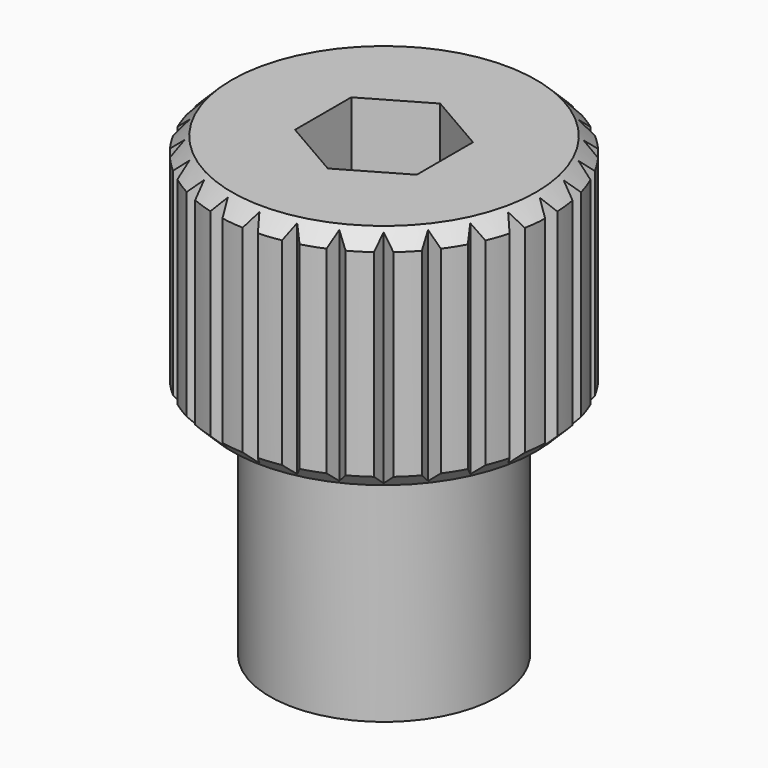
from build123d import *

# Parameters (mm, degrees)
F0_R      = 7.5
F0_R_2    = 2.65
F1_DEPTH  = 15
F2_R      = 11
F3_DEPTH  = 15
F4_DEPTH  = 15
F6_DEPTH  = 4.5
F7_SIZE   = 1
F9_DEPTH  = 25
F10_R     = 2.65
F11_DEPTH = 25


with BuildPart() as f1:
    # F0 (on Top) → F1 (new body)
    with BuildSketch(Plane.XY):
        Circle(F0_R)
        Circle(F0_R_2, mode=Mode.SUBTRACT)
    extrude(amount=F1_DEPTH)

    # F2 (on face) → F3 (join)
    with BuildSketch(Plane.XY.offset(15)):
        Circle(F2_R)
    extrude(amount=F3_DEPTH)

    # F2 (on face) → F4 (join)
    with BuildSketch(Plane.XY.offset(15)):
        Circle(F2_R)
    extrude(amount=F4_DEPTH)

    # F5 (on face) → F6 (cut)
    with BuildSketch(Plane.XY.offset(30)):
        Polygon((4, -2.309401), (4, 2.309401), (0, 4.618802), (-4, 2.309401), (-4, -2.309401), (0, -4.618802), align=None)
    extrude(amount=-F6_DEPTH, mode=Mode.SUBTRACT)

    # F7
    f7_edges = [f1.edges().sort_by_distance(p)[0] for p in [
        (-11, 0, 30),
        (-11, 0, 15),
    ]]
    chamfer(f7_edges, length=F7_SIZE)

    # F8 (on face) → F9 (cut)
    with BuildSketch(Plane.XY.offset(30)):
        Polygon((0, -10.23863), (-0.5, -10.98863), (0, -11.73863), (0.5, -10.98863), align=None)
        Polygon((1.957736, -10.824383), (2.612091, -11.444319), (2.932664, -10.601862), (2.27831, -9.981927), align=None)
        Polygon((4.317304, -10.117356), (5.093201, -10.576141), (5.218273, -9.683472), (4.442375, -9.224687), align=None)
        Polygon((6.460383, -8.903002), (7.318916, -9.177631), (7.242215, -8.279512), (6.383682, -8.004884), align=None)
        Polygon((8.279512, -7.242215), (9.177631, -7.318916), (8.903002, -6.460383), (8.004884, -6.383682), align=None)
        Polygon((9.683472, -5.218273), (10.576141, -5.093201), (10.117356, -4.317304), (9.224687, -4.442375), align=None)
        Polygon((10.601862, -2.932664), (11.444319, -2.612091), (10.824383, -1.957736), (9.981927, -2.27831), align=None)
        Polygon((10.98863, -0.5), (11.73863, 0), (10.98863, 0.5), (10.23863, 0), align=None)
        Polygon((10.824383, 1.957736), (11.444319, 2.612091), (10.601862, 2.932664), (9.981927, 2.27831), align=None)
        Polygon((10.117356, 4.317304), (10.576141, 5.093201), (9.683472, 5.218273), (9.224687, 4.442375), align=None)
        Polygon((8.903002, 6.460383), (9.177631, 7.318916), (8.279512, 7.242215), (8.004884, 6.383682), align=None)
        Polygon((7.242215, 8.279512), (7.318916, 9.177631), (6.460383, 8.903002), (6.383682, 8.004884), align=None)
        Polygon((5.218273, 9.683472), (5.093201, 10.576141), (4.317304, 10.117356), (4.442375, 9.224687), align=None)
        Polygon((2.932664, 10.601862), (2.612091, 11.444319), (1.957736, 10.824383), (2.27831, 9.981927), align=None)
        Polygon((0.5, 10.98863), (0, 11.73863), (-0.5, 10.98863), (0, 10.23863), align=None)
        Polygon((-1.957736, 10.824383), (-2.612091, 11.444319), (-2.932664, 10.601862), (-2.27831, 9.981927), align=None)
        Polygon((-4.317304, 10.117356), (-5.093201, 10.576141), (-5.218273, 9.683472), (-4.442375, 9.224687), align=None)
        Polygon((-6.460383, 8.903002), (-7.318916, 9.177631), (-7.242215, 8.279512), (-6.383682, 8.004884), align=None)
        Polygon((-8.279512, 7.242215), (-9.177631, 7.318916), (-8.903002, 6.460383), (-8.004884, 6.383682), align=None)
        Polygon((-9.683472, 5.218273), (-10.576141, 5.093201), (-10.117356, 4.317304), (-9.224687, 4.442375), align=None)
        Polygon((-10.601862, 2.932664), (-11.444319, 2.612091), (-10.824383, 1.957736), (-9.981927, 2.27831), align=None)
        Polygon((-10.98863, 0.5), (-11.73863, 0), (-10.98863, -0.5), (-10.23863, 0), align=None)
        Polygon((-10.824383, -1.957736), (-11.444319, -2.612091), (-10.601862, -2.932664), (-9.981927, -2.27831), align=None)
        Polygon((-10.117356, -4.317304), (-10.576141, -5.093201), (-9.683472, -5.218273), (-9.224687, -4.442375), align=None)
        Polygon((-8.903002, -6.460383), (-9.177631, -7.318916), (-8.279512, -7.242215), (-8.004884, -6.383682), align=None)
        Polygon((-7.242215, -8.279512), (-7.318916, -9.177631), (-6.460383, -8.903002), (-6.383682, -8.004884), align=None)
        Polygon((-5.218273, -9.683472), (-5.093201, -10.576141), (-4.317304, -10.117356), (-4.442375, -9.224687), align=None)
        Polygon((-2.932664, -10.601862), (-2.612091, -11.444319), (-1.957736, -10.824383), (-2.27831, -9.981927), align=None)
    extrude(amount=-F9_DEPTH, mode=Mode.SUBTRACT)

    # F10 (on face) → F11 (cut)
    with BuildSketch(Plane.XY.offset(25.5)):
        Circle(F10_R)
    extrude(amount=-F11_DEPTH, mode=Mode.SUBTRACT)


solid = f1.part
